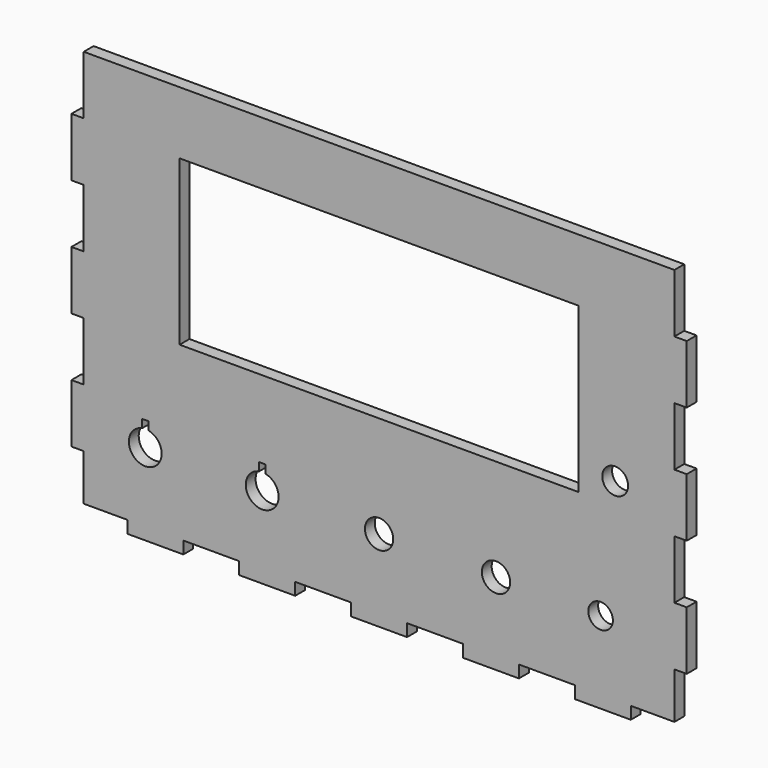
from build123d import *

# Parameters (mm, degrees)
F0_R     = 3.45
F0_R_2   = 3
F0_W     = 97.25
F0_H     = 40
F0_R_3   = 3.15
F1_DEPTH = 3


with BuildPart() as f1:
    # F0 (on Front) → F1 (new body)
    with BuildSketch(Plane.XZ):
        Polygon((47.727273, -50), (61.363636, -50), (61.363636, -47), (72, -47), (72, -35.714286), (75, -35.714286), (75, -21.428571), (72, -21.428571), (72, -7.142857), (75, -7.142857), (75, 7.142857), (72, 7.142857), (72, 21.428571), (75, 21.428571), (75, 35.714286), (72, 35.714286), (72, 50), (-72, 50), (-72, 35.714286), (-75, 35.714286), (-75, 21.428571), (-72, 21.428571), (-72, 7.142857), (-75, 7.142857), (-75, -7.142857), (-72, -7.142857), (-72, -21.428571), (-75, -21.428571), (-75, -35.714286), (-72, -35.714286), (-72, -47), (-61.363636, -47), (-61.363636, -50), (-47.727273, -50), (-47.727273, -47), (-34.090909, -47), (-34.090909, -50), (-20.454545, -50), (-20.454545, -47), (-6.818182, -47), (-6.818182, -50), (6.818182, -50), (6.818182, -47), (20.454545, -47), (20.454545, -50), (34.090909, -50), (34.090909, -47), (47.727273, -47), align=None)
        with BuildLine():
            ThreePointArc((-56.25, -26.156637), (-57, -34.085696), (-57.75, -26.156637))
            Line((-57.75, -26.156637), (-57.75, -24.156637))
            Line((-57.75, -24.156637), (-56.25, -24.156637))
            Line((-56.25, -24.156637), (-56.25, -26.156637))
        make_face(mode=Mode.SUBTRACT)
        with BuildLine():
            ThreePointArc((-27.75, -26.156637), (-28.5, -34.085696), (-29.25, -26.156637))
            Line((-29.25, -26.156637), (-29.25, -24.156637))
            Line((-29.25, -24.156637), (-27.75, -24.156637))
            Line((-27.75, -24.156637), (-27.75, -26.156637))
        make_face(mode=Mode.SUBTRACT)
        with Locations((0, -30.085696)):
            Circle(F0_R, mode=Mode.SUBTRACT)
        with Locations((28.5, -30.085696)):
            Circle(F0_R, mode=Mode.SUBTRACT)
        with Locations((54, -30.085696)):
            Circle(F0_R_2, mode=Mode.SUBTRACT)
        with Locations((0, 14.730984)):
            Rectangle(F0_W, F0_H, mode=Mode.SUBTRACT)
        with Locations((57.556987, 0)):
            Circle(F0_R_3, mode=Mode.SUBTRACT)
    extrude(amount=F1_DEPTH)


solid = f1.part
